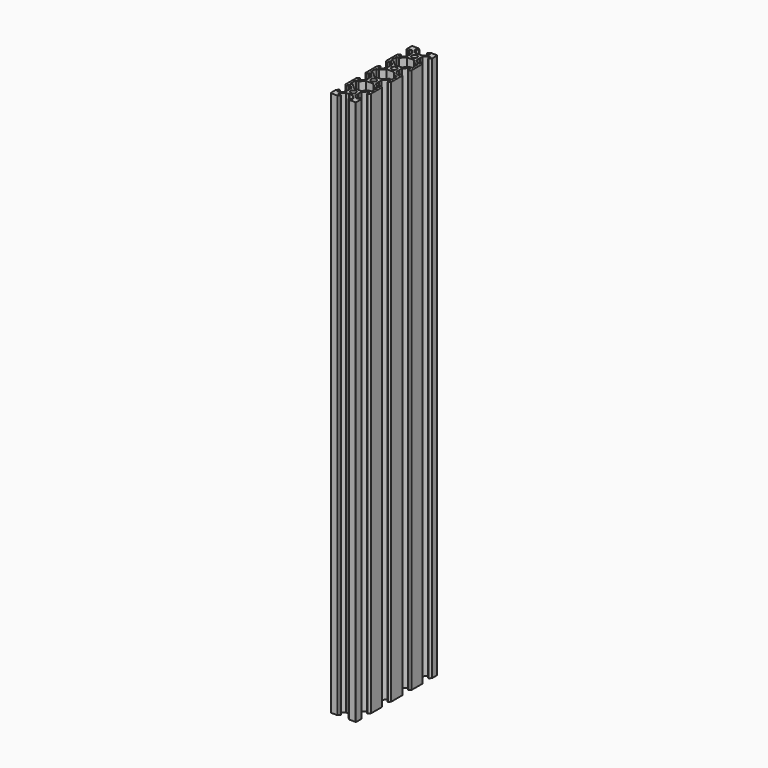
from build123d import *

# Parameters (mm, degrees)
F2_DEPTH = 428


with BuildPart() as f2:
    # F1 (on Top) → F2 (new body)
    with BuildSketch(Plane.XY):
        with BuildLine():
            Line((3.9, 29.79), (3.69, 30))
            Line((3.69, 30), (3.9, 30.21))
            Line((3.9, 30.21), (3.9, 32.83934))
            Line((3.9, 32.83934), (6.56066, 35.5))
            Line((6.56066, 35.5), (8.2, 35.5))
            Line((8.2, 35.5), (8.2, 33.125))
            Line((8.2, 33.125), (8.545, 33.125))
            Line((8.545, 33.125), (10, 34.58))
            Line((10, 34.58), (10, 39.5))
            ThreePointArc((10, 39.5), (9.8535533906, 39.8535533906), (9.5, 40))
            Line((9.5, 40), (4.58, 40))
            Line((4.58, 40), (3.125, 38.545))
            Line((3.125, 38.545), (3.125, 38.2))
            Line((3.125, 38.2), (5.5, 38.2))
            Line((5.5, 38.2), (5.5, 36.56066))
            Line((5.5, 36.56066), (2.83934, 33.9))
            Line((2.83934, 33.9), (0.21, 33.9))
            Line((0.21, 33.9), (0, 33.69))
            Line((0, 33.69), (-0.21, 33.9))
            Line((-0.21, 33.9), (-2.83934, 33.9))
            Line((-2.83934, 33.9), (-5.5, 36.56066))
            Line((-5.5, 36.56066), (-5.5, 38.2))
            Line((-5.5, 38.2), (-3.125, 38.2))
            Line((-3.125, 38.2), (-3.125, 38.545))
            Line((-3.125, 38.545), (-4.58, 40))
            Line((-4.58, 40), (-9.5, 40))
            ThreePointArc((-9.5, 40), (-9.8535533906, 39.8535533906), (-10, 39.5))
            Line((-10, 39.5), (-10, 34.58))
            Line((-10, 34.58), (-8.545, 33.125))
            Line((-8.545, 33.125), (-8.2, 33.125))
            Line((-8.2, 33.125), (-8.2, 35.5))
            Line((-8.2, 35.5), (-6.56066, 35.5))
            Line((-6.56066, 35.5), (-3.9, 32.83934))
            Line((-3.9, 32.83934), (-3.9, 30.21))
            Line((-3.9, 30.21), (-3.69, 30))
            Line((-3.69, 30), (-3.9, 29.79))
            Line((-3.9, 29.79), (-3.9, 27.16066))
            Line((-3.9, 27.16066), (-6.56066, 24.5))
            Line((-6.56066, 24.5), (-8.2, 24.5))
            Line((-8.2, 24.5), (-8.2, 26.875))
            Line((-8.2, 26.875), (-8.545, 26.875))
            Line((-8.545, 26.875), (-10, 25.42))
            Line((-10, 25.42), (-10, 14.58))
            Line((-10, 14.58), (-8.545, 13.125))
            Line((-8.545, 13.125), (-8.2, 13.125))
            Line((-8.2, 13.125), (-8.2, 15.5))
            Line((-8.2, 15.5), (-6.56066, 15.5))
            Line((-6.56066, 15.5), (-3.9, 12.83934))
            Line((-3.9, 12.83934), (-3.9, 10.21))
            Line((-3.9, 10.21), (-3.69, 10))
            Line((-3.69, 10), (-3.9, 9.79))
            Line((-3.9, 9.79), (-3.9, 7.16066))
            Line((-3.9, 7.16066), (-6.56066, 4.5))
            Line((-6.56066, 4.5), (-8.2, 4.5))
            Line((-8.2, 4.5), (-8.2, 6.875))
            Line((-8.2, 6.875), (-8.545, 6.875))
            Line((-8.545, 6.875), (-10, 5.42))
            Line((-10, 5.42), (-10, -5.42))
            Line((-10, -5.42), (-8.545, -6.875))
            Line((-8.545, -6.875), (-8.2, -6.875))
            Line((-8.2, -6.875), (-8.2, -4.5))
            Line((-8.2, -4.5), (-6.56066, -4.5))
            Line((-6.56066, -4.5), (-3.9, -7.16066))
            Line((-3.9, -7.16066), (-3.9, -9.79))
            Line((-3.9, -9.79), (-3.69, -10))
            Line((-3.69, -10), (-3.9, -10.21))
            Line((-3.9, -10.21), (-3.9, -12.83934))
            Line((-3.9, -12.83934), (-6.56066, -15.5))
            Line((-6.56066, -15.5), (-8.2, -15.5))
            Line((-8.2, -15.5), (-8.2, -13.125))
            Line((-8.2, -13.125), (-8.545, -13.125))
            Line((-8.545, -13.125), (-10, -14.58))
            Line((-10, -14.58), (-10, -25.42))
            Line((-10, -25.42), (-8.545, -26.875))
            Line((-8.545, -26.875), (-8.2, -26.875))
            Line((-8.2, -26.875), (-8.2, -24.5))
            Line((-8.2, -24.5), (-6.56066, -24.5))
            Line((-6.56066, -24.5), (-3.9, -27.16066))
            Line((-3.9, -27.16066), (-3.9, -29.79))
            Line((-3.9, -29.79), (-3.69, -30))
            Line((-3.69, -30), (-3.9, -30.21))
            Line((-3.9, -30.21), (-3.9, -32.83934))
            Line((-3.9, -32.83934), (-6.56066, -35.5))
            Line((-6.56066, -35.5), (-8.2, -35.5))
            Line((-8.2, -35.5), (-8.2, -33.125))
            Line((-8.2, -33.125), (-8.545, -33.125))
            Line((-8.545, -33.125), (-10, -34.58))
            Line((-10, -34.58), (-10, -39.5))
            ThreePointArc((-10, -39.5), (-9.8535533906, -39.8535533906), (-9.5, -40))
            Line((-9.5, -40), (-4.58, -40))
            Line((-4.58, -40), (-3.125, -38.545))
            Line((-3.125, -38.545), (-3.125, -38.2))
            Line((-3.125, -38.2), (-5.5, -38.2))
            Line((-5.5, -38.2), (-5.5, -36.56066))
            Line((-5.5, -36.56066), (-2.83934, -33.9))
            Line((-2.83934, -33.9), (-0.21, -33.9))
            Line((-0.21, -33.9), (0, -33.69))
            Line((0, -33.69), (0.21, -33.9))
            Line((0.21, -33.9), (2.83934, -33.9))
            Line((2.83934, -33.9), (5.5, -36.56066))
            Line((5.5, -36.56066), (5.5, -38.2))
            Line((5.5, -38.2), (3.125, -38.2))
            Line((3.125, -38.2), (3.125, -38.545))
            Line((3.125, -38.545), (4.58, -40))
            Line((4.58, -40), (9.5, -40))
            ThreePointArc((9.5, -40), (9.8535533906, -39.8535533906), (10, -39.5))
            Line((10, -39.5), (10, -34.58))
            Line((10, -34.58), (8.545, -33.125))
            Line((8.545, -33.125), (8.2, -33.125))
            Line((8.2, -33.125), (8.2, -35.5))
            Line((8.2, -35.5), (6.56066, -35.5))
            Line((6.56066, -35.5), (3.9, -32.83934))
            Line((3.9, -32.83934), (3.9, -30.21))
            Line((3.9, -30.21), (3.69, -30))
            Line((3.69, -30), (3.9, -29.79))
            Line((3.9, -29.79), (3.9, -27.16066))
            Line((3.9, -27.16066), (6.56066, -24.5))
            Line((6.56066, -24.5), (8.2, -24.5))
            Line((8.2, -24.5), (8.2, -26.875))
            Line((8.2, -26.875), (8.545, -26.875))
            Line((8.545, -26.875), (10, -25.42))
            Line((10, -25.42), (10, -14.58))
            Line((10, -14.58), (8.545, -13.125))
            Line((8.545, -13.125), (8.2, -13.125))
            Line((8.2, -13.125), (8.2, -15.5))
            Line((8.2, -15.5), (6.56066, -15.5))
            Line((6.56066, -15.5), (3.9, -12.83934))
            Line((3.9, -12.83934), (3.9, -10.21))
            Line((3.9, -10.21), (3.69, -10))
            Line((3.69, -10), (3.9, -9.79))
            Line((3.9, -9.79), (3.9, -7.16066))
            Line((3.9, -7.16066), (6.56066, -4.5))
            Line((6.56066, -4.5), (8.2, -4.5))
            Line((8.2, -4.5), (8.2, -6.875))
            Line((8.2, -6.875), (8.545, -6.875))
            Line((8.545, -6.875), (10, -5.42))
            Line((10, -5.42), (10, 5.42))
            Line((10, 5.42), (8.545, 6.875))
            Line((8.545, 6.875), (8.2, 6.875))
            Line((8.2, 6.875), (8.2, 4.5))
            Line((8.2, 4.5), (6.56066, 4.5))
            Line((6.56066, 4.5), (3.9, 7.16066))
            Line((3.9, 7.16066), (3.9, 9.79))
            Line((3.9, 9.79), (3.69, 10))
            Line((3.69, 10), (3.9, 10.21))
            Line((3.9, 10.21), (3.9, 12.83934))
            Line((3.9, 12.83934), (6.56066, 15.5))
            Line((6.56066, 15.5), (8.2, 15.5))
            Line((8.2, 15.5), (8.2, 13.125))
            Line((8.2, 13.125), (8.545, 13.125))
            Line((8.545, 13.125), (10, 14.58))
            Line((10, 14.58), (10, 25.42))
            Line((10, 25.42), (8.545, 26.875))
            Line((8.545, 26.875), (8.2, 26.875))
            Line((8.2, 26.875), (8.2, 24.5))
            Line((8.2, 24.5), (6.56066, 24.5))
            Line((6.56066, 24.5), (3.9, 27.16066))
            Line((3.9, 27.16066), (3.9, 29.79))
        make_face()
        with BuildLine():
            ThreePointArc((2.1, -30), (0, -32.1), (-2.1, -30))
            ThreePointArc((-2.1, -30), (0, -27.9), (2.1, -30))
        make_face(mode=Mode.SUBTRACT)
        Polygon((-6.23934, -22.7), (-8.2, -22.7), (-8.2, -17.3), (-6.23934, -17.3), (-2.83934, -13.9), (2.83934, -13.9), (6.23934, -17.3), (8.2, -17.3), (8.2, -22.7), (6.23934, -22.7), (2.83934, -26.1), (-2.83934, -26.1), align=None, mode=Mode.SUBTRACT)
        with BuildLine():
            ThreePointArc((2.1, -10), (0, -12.1), (-2.1, -10))
            ThreePointArc((-2.1, -10), (0, -7.9), (2.1, -10))
        make_face(mode=Mode.SUBTRACT)
        Polygon((-6.23934, -2.7), (-8.2, -2.7), (-8.2, 2.7), (-6.23934, 2.7), (-2.83934, 6.1), (2.83934, 6.1), (6.23934, 2.7), (8.2, 2.7), (8.2, -2.7), (6.23934, -2.7), (2.83934, -6.1), (-2.83934, -6.1), align=None, mode=Mode.SUBTRACT)
        with BuildLine():
            ThreePointArc((2.1, 10), (0, 7.9), (-2.1, 10))
            ThreePointArc((-2.1, 10), (0, 12.1), (2.1, 10))
        make_face(mode=Mode.SUBTRACT)
        Polygon((-6.23934, 17.3), (-8.2, 17.3), (-8.2, 22.7), (-6.23934, 22.7), (-2.83934, 26.1), (2.83934, 26.1), (6.23934, 22.7), (8.2, 22.7), (8.2, 17.3), (6.23934, 17.3), (2.83934, 13.9), (-2.83934, 13.9), align=None, mode=Mode.SUBTRACT)
        with BuildLine():
            ThreePointArc((2.1, 30), (0, 27.9), (-2.1, 30))
            ThreePointArc((-2.1, 30), (0, 32.1), (2.1, 30))
        make_face(mode=Mode.SUBTRACT)
    extrude(amount=F2_DEPTH)


solid = f2.part
